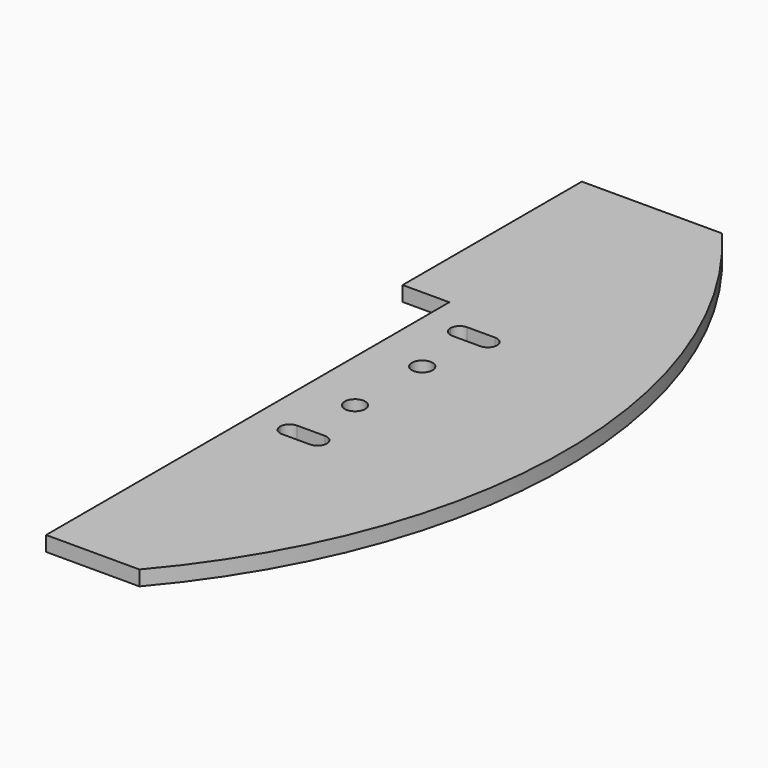
from build123d import *

# Parameters (mm, degrees)
F1_DEPTH = 0.8
F2_R     = 0.55
F3_DEPTH = 1


with BuildPart() as f1:
    # F0 (on Top) → F1 (new body)
    with BuildSketch(Plane.XY):
        with BuildLine():
            Line((5, 27), (-2.5, 27))
            Line((-2.5, 27), (-2.5, 15))
            Line((-2.5, 15), (0, 15))
            Line((0, 15), (0, 0))
            Line((0, 0), (0, -12))
            Line((0, -12), (5, -12))
            ThreePointArc((5, -12), (12.201974, 7.5), (5, 27))
        make_face()
    extrude(amount=F1_DEPTH)

    # F2 (on face) → F3 (cut)
    with BuildSketch(Plane.XY.offset(0.8)):
        with Locations((2.75, 9.75)):
            Circle(F2_R)
        with Locations((2.75, 5.25)):
            Circle(F2_R)
        with BuildLine():
            ThreePointArc((4, 13.2), (3.853553, 13.553553), (3.5, 13.7))
            Line((3.5, 13.7), (2, 13.7))
            ThreePointArc((2, 13.7), (1.646447, 13.553553), (1.5, 13.2))
            ThreePointArc((1.5, 13.2), (1.646447, 12.846447), (2, 12.7))
            Line((2, 12.7), (3.5, 12.7))
            ThreePointArc((3.5, 12.7), (3.853553, 12.846447), (4, 13.2))
        make_face()
        with BuildLine():
            ThreePointArc((4, 1.8), (3.853553, 2.153553), (3.5, 2.3))
            Line((3.5, 2.3), (2, 2.3))
            ThreePointArc((2, 2.3), (1.646447, 2.153553), (1.5, 1.8))
            ThreePointArc((1.5, 1.8), (1.646447, 1.446447), (2, 1.3))
            Line((2, 1.3), (3.5, 1.3))
            ThreePointArc((3.5, 1.3), (3.853553, 1.446447), (4, 1.8))
        make_face()
    extrude(amount=-F3_DEPTH, mode=Mode.SUBTRACT)


solid = f1.part
